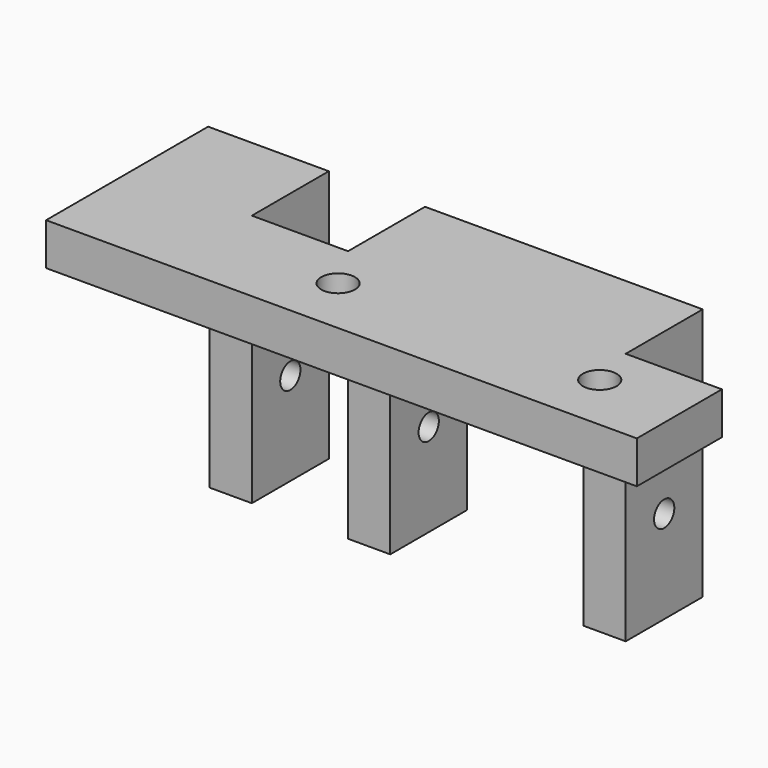
from build123d import *

# Parameters (mm, degrees)
SKETCH_W        = 70
SKETCH_H        = 24
SKETCH_R        = 2
PAD_DEPTH       = 5
SKETCH001_W     = 11.4
SKETCH001_H     = 11.4
POCKET_DEPTH    = 5.001
SKETCH002_W     = 5
SKETCH002_H     = 11.4
PAD001_DEPTH    = 25
SKETCH003_R     = 1.5
POCKET001_DEPTH = 58.601


with BuildPart() as part:
    # Sketch → Pad (new body)
    with BuildSketch(Plane.XY):
        with Locations((35, 12)):
            Rectangle(SKETCH_W, SKETCH_H)
        with Locations((60, 7)):
            Circle(SKETCH_R, mode=Mode.SUBTRACT)
        with Locations((29, 7)):
            Circle(SKETCH_R, mode=Mode.SUBTRACT)
    extrude(amount=PAD_DEPTH)

    # Sketch001 → Pocket (cut, through all)
    with BuildSketch(Plane.XY.offset(5)):
        with Locations((64.3, 18.3)):
            Rectangle(SKETCH001_W, SKETCH001_H)
        with Locations((20, 18.3)):
            Rectangle(SKETCH001_W, SKETCH001_H)
    extrude(amount=-POCKET_DEPTH, mode=Mode.SUBTRACT)

    # Sketch002 → Pad001 (new body)
    with BuildSketch(Plane(origin=(0, 0, 0), x_dir=(1, 0, 0), z_dir=(0, 0, -1))):
        with Locations((11.8, -18.3)):
            Rectangle(SKETCH002_W, SKETCH002_H)
        with Locations((28.2, -18.3)):
            Rectangle(SKETCH002_W, SKETCH002_H)
        with Locations((56.1, -18.3)):
            Rectangle(SKETCH002_W, SKETCH002_H)
    extrude(amount=PAD001_DEPTH)

    # Sketch003 → Pocket001 (cut, through all)
    with BuildSketch(Plane.YZ.offset(58.6)):
        with Locations((18.3, -14)):
            Circle(SKETCH003_R)
        with Locations((18.3, -6)):
            Circle(SKETCH003_R)
    extrude(amount=-POCKET001_DEPTH, mode=Mode.SUBTRACT)


solid = part.part
